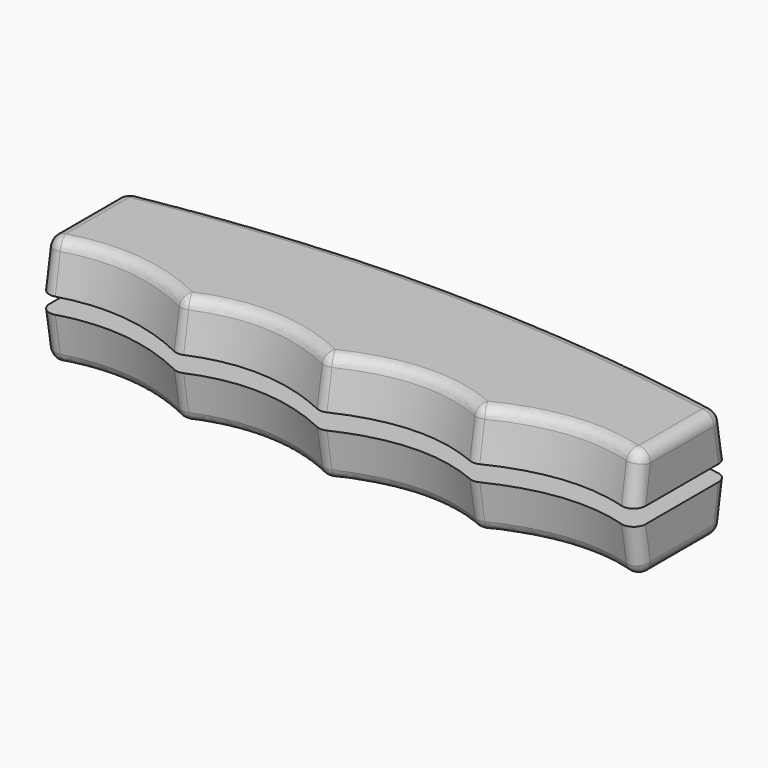
from build123d import *

# Parameters (mm, degrees)
SKETCH002_R             = 2.25
POCKET_DEPTH            = 4
FILLET001_R             = 1.5
SKETCH005_R             = 2.2
PAD_DEPTH               = 6
FILLET_R                = 1.5
BODY001_PLACEMENT_ANGLE = 180


with BuildPart() as female:
    # Sketch (on XY_Plane of Origin) → AdditiveLoft section 0
    with BuildSketch(Plane.XY):
        with BuildLine():
            Line((-38, 7.5), (-38, -7.5))
            add(Edge.make_bspline(
                [(-38, -7.5), (-28.7713, -3.886), (-18.861913, -8.959)],
                knots=[0, 0, 0, 1, 1, 1], degree=2))
            add(Edge.make_bspline(
                [(-18.861913, -8.959), (-9.89131, -4.843), (0, -9.744)],
                knots=[0, 0, 0, 1, 1, 1], degree=2))
            add(Edge.make_bspline(
                [(0, -9.744), (9.89131, -4.843), (18.861913, -8.959)],
                knots=[0, 0, 0, 1, 1, 1], degree=2))
            add(Edge.make_bspline(
                [(18.861913, -8.959), (28.7713, -3.886), (38, -7.5)],
                knots=[0, 0, 0, 1, 1, 1], degree=2))
            Line((38, -7.5), (38, 7.5))
            add(Edge.make_bspline(
                [(-38, 7.5), (0, 14.7), (38, 7.5)],
                knots=[0, 0, 0, 1, 1, 1], degree=2))
        make_face()
    # Sketch001 (on XY_Plane of Origin) → AdditiveLoft section 1
    with BuildSketch(Plane.XY.offset(6)):
        with BuildLine():
            Line((-38, 6.5), (-38, -6.5))
            add(Edge.make_bspline(
                [(-38, -6.5), (-28.771363, -2.886), (-18.861923, -7.959)],
                knots=[0, 0, 0, 1, 1, 1], degree=2))
            add(Edge.make_bspline(
                [(-18.861923, -7.959), (-9.891616, -3.843), (0, -8.744)],
                knots=[0, 0, 0, 1, 1, 1], degree=2))
            add(Edge.make_bspline(
                [(0, -8.744), (9.891616, -3.843), (18.861923, -7.959)],
                knots=[0, 0, 0, 1, 1, 1], degree=2))
            add(Edge.make_bspline(
                [(18.861923, -7.959), (28.771363, -2.886), (38, -6.5)],
                knots=[0, 0, 0, 1, 1, 1], degree=2))
            Line((38, -6.5), (38, 6.5))
            add(Edge.make_bspline(
                [(-38, 6.5), (0, 13.7), (38, 6.5)],
                knots=[0, 0, 0, 1, 1, 1], degree=2))
        make_face()
    loft()

    # Sketch002 → Pocket (cut)
    with BuildSketch(Plane.XY):
        with Locations((-24, 1)):
            Circle(SKETCH002_R)
        with Locations((24, 1)):
            Circle(SKETCH002_R)
    extrude(amount=POCKET_DEPTH, mode=Mode.SUBTRACT)

    # Fillet001
    fillet001_edges = [female.edges().sort_by_distance(p)[0] for p in [
        (-38, 7, 3),
        (0, 10.1, 6),
        (-38, 0, 6),
        (-38, -7, 3),
        (-28.282859, -5.084402, 6),
        (-9.35431, -6.1124, 6),
        (9.35431, -6.1124, 6),
        (28.282859, -5.084402, 6),
        (38, 0, 6),
        (38, 7, 3),
        (-18.861918, -8.459, 3),
        (0, -9.244, 3),
        (18.861918, -8.459, 3),
        (38, -7, 3),
    ]]
    fillet(fillet001_edges, radius=FILLET001_R)


with BuildPart() as male:
    # Sketch003 (on XY_Plane of Origin) → AdditiveLoft001 section 0
    with BuildSketch(Plane.XY):
        with BuildLine():
            Line((-38, 7.5), (-38, -7.5))
            add(Edge.make_bspline(
                [(-38, -7.5), (-28.7713, -3.886), (-18.861913, -8.959)],
                knots=[0, 0, 0, 1, 1, 1], degree=2))
            add(Edge.make_bspline(
                [(-18.861913, -8.959), (-9.89131, -4.843), (0, -9.744)],
                knots=[0, 0, 0, 1, 1, 1], degree=2))
            add(Edge.make_bspline(
                [(0, -9.744), (9.89131, -4.843), (18.861913, -8.959)],
                knots=[0, 0, 0, 1, 1, 1], degree=2))
            add(Edge.make_bspline(
                [(18.861913, -8.959), (28.7713, -3.886), (38, -7.5)],
                knots=[0, 0, 0, 1, 1, 1], degree=2))
            Line((38, -7.5), (38, 7.5))
            add(Edge.make_bspline(
                [(-38, 7.5), (0, 14.7), (38, 7.5)],
                knots=[0, 0, 0, 1, 1, 1], degree=2))
        make_face()
    # Sketch004 (on XY_Plane of Origin) → AdditiveLoft001 section 1
    with BuildSketch(Plane.XY.offset(6)):
        with BuildLine():
            Line((-38, 6.5), (-38, -6.5))
            add(Edge.make_bspline(
                [(-38, -6.5), (-28.771363, -2.886), (-18.861923, -7.959)],
                knots=[0, 0, 0, 1, 1, 1], degree=2))
            add(Edge.make_bspline(
                [(-18.861923, -7.959), (-9.891616, -3.843), (0, -8.744)],
                knots=[0, 0, 0, 1, 1, 1], degree=2))
            add(Edge.make_bspline(
                [(0, -8.744), (9.891616, -3.843), (18.861923, -7.959)],
                knots=[0, 0, 0, 1, 1, 1], degree=2))
            add(Edge.make_bspline(
                [(18.861923, -7.959), (28.771363, -2.886), (38, -6.5)],
                knots=[0, 0, 0, 1, 1, 1], degree=2))
            Line((38, -6.5), (38, 6.5))
            add(Edge.make_bspline(
                [(-38, 6.5), (0, 13.7), (38, 6.5)],
                knots=[0, 0, 0, 1, 1, 1], degree=2))
        make_face()
    loft()

    # Sketch005 → Pad (new body)
    with BuildSketch(Plane.XY):
        with Locations((-24, 1)):
            Circle(SKETCH005_R)
        with Locations((24, 1)):
            Circle(SKETCH005_R)
    extrude(amount=-PAD_DEPTH)

    # Fillet
    fillet_edges = [male.edges().sort_by_distance(p)[0] for p in [
        (28.282859, -5.084402, 6),
        (38, 0, 6),
        (0, 10.1, 6),
        (9.35431, -6.1124, 6),
        (-9.35431, -6.1124, 6),
        (-28.282859, -5.084402, 6),
        (-38, 0, 6),
        (18.861918, -8.459, 3),
        (38, -7, 3),
        (0, -9.244, 3),
        (-18.861918, -8.459, 3),
        (-38, -7, 3),
        (38, 7, 3),
        (-38, 7, 3),
    ]]
    fillet(fillet_edges, radius=FILLET_R)


with BuildPart() as male_1:
    # Body001 placement: moved
    add(male.part.moved(Location((0, 0, -2.04))).rotate(Axis((0, 0, -2.04), (0, 1, 0)), BODY001_PLACEMENT_ANGLE))


solid = Compound([female.part, male_1.part])
